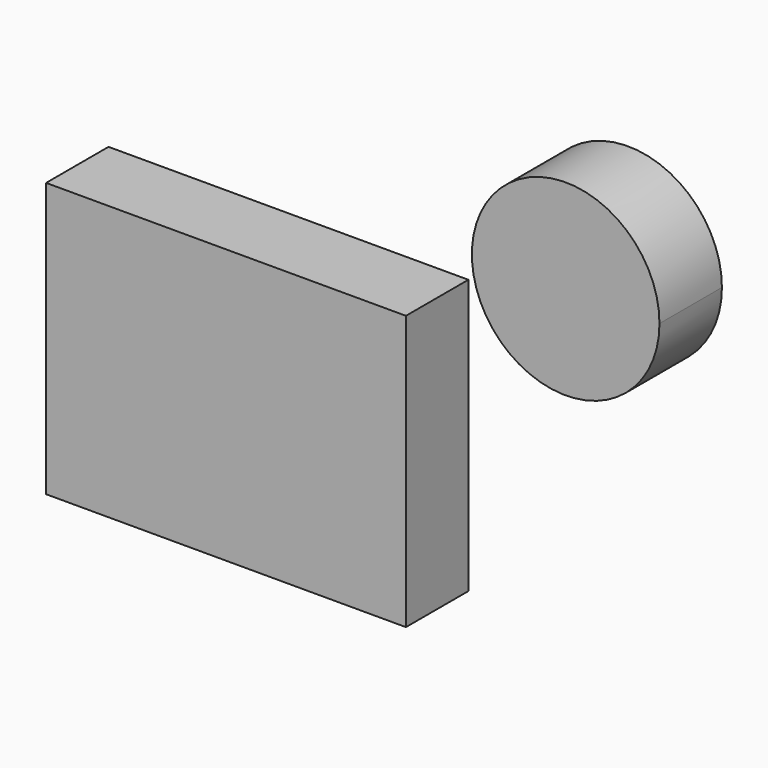
from build123d import *

# Parameters (mm, degrees)
F0_W     = 117.098674
F0_H     = 89.19198
F1_DEPTH = 25.4


with BuildPart() as f1:
    # F0 (on Front) → F1 (new body)
    with BuildSketch(Plane.XZ):
        with Locations((-70.587508, 0)):
            Rectangle(F0_W, F0_H)
        with BuildLine():
            ThreePointArc((70.470046, 69.219545), (42.777296, 99.613017), (9.945351, 74.859938))
            ThreePointArc((9.945351, 74.859938), (37.112463, 38.826072), (70.470046, 69.219545))
        make_face()
    extrude(amount=F1_DEPTH)


solid = f1.part
